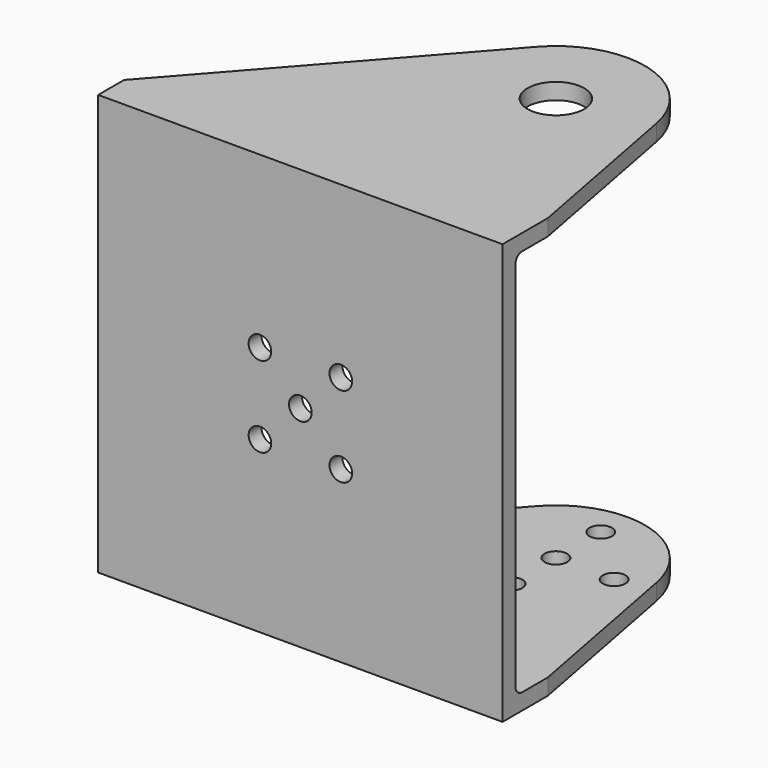
from build123d import *

# Parameters (mm, degrees)
SKETCH_W     = 50
SKETCH_H     = 48
SKETCH_R     = 1.4
PAD_DEPTH    = 2
SKETCH003_R  = 1.4
PAD001_DEPTH = 2
SKETCH004_R  = 3.5
PAD002_DEPTH = 2
FILLET_R     = 1
FILLET001_R  = 1


with BuildPart() as part:
    # Sketch → Pad (new body)
    with BuildSketch(Plane.XZ):
        Rectangle(SKETCH_W, SKETCH_H)
        with Locations((-5, 5)):
            Circle(SKETCH_R, mode=Mode.SUBTRACT)
        with Locations((5, 5)):
            Circle(SKETCH_R, mode=Mode.SUBTRACT)
        with Locations((-5, -5)):
            Circle(SKETCH_R, mode=Mode.SUBTRACT)
        with Locations((5, -5)):
            Circle(SKETCH_R, mode=Mode.SUBTRACT)
        Circle(SKETCH_R, mode=Mode.SUBTRACT)
    extrude(amount=PAD_DEPTH)

    # Sketch003 (on Face3 of Pad) → Pad001 (join)
    with BuildSketch(Plane(origin=(0, 0, -24), x_dir=(1, 0, 0), z_dir=(0, 0, -1))):
        with BuildLine():
            Line((-25, 0), (-25, 2))
            Line((-25, 2), (25, 2))
            Line((25, 2), (25, 0))
            Line((25, 0), (25, -5))
            Line((25, -5), (20.80638, -27.054785))
            ThreePointArc((1.756653, -32.283353), (12.911489, -35.607697), (20.80638, -27.054785))
            Line((-25, -2), (1.756653, -32.283353))
            Line((-25, 0), (-25, -2))
        make_face()
        with Locations((10, -31.934549)):
            Circle(SKETCH003_R, mode=Mode.SUBTRACT)
        with Locations((17.205, -25)):
            Circle(SKETCH003_R, mode=Mode.SUBTRACT)
        with Locations((10, -25)):
            Circle(SKETCH003_R, mode=Mode.SUBTRACT)
        with Locations((2.795, -25)):
            Circle(SKETCH003_R, mode=Mode.SUBTRACT)
        with Locations((10, -18.065451)):
            Circle(SKETCH003_R, mode=Mode.SUBTRACT)
    extrude(amount=PAD001_DEPTH)

    # Sketch004 (on Face1 of Pad) → Pad002 (join)
    with BuildSketch(Plane(origin=(0, 0, 24), x_dir=(-1, 0, 0), z_dir=(0, 0, 1))):
        with BuildLine():
            Line((-25, 2), (25, 2))
            Line((25, 2), (25, 0))
            Line((25, 0), (25, -2))
            Line((25, -2), (-1.756653, -32.283353))
            ThreePointArc((-20.80638, -27.054785), (-12.911489, -35.607697), (-1.756653, -32.283353))
            Line((-25, -5), (-20.80638, -27.054785))
            Line((-25, 0), (-25, -5))
            Line((-25, 0), (-25, 2))
        make_face()
        with Locations((-10, -25)):
            Circle(SKETCH004_R, mode=Mode.SUBTRACT)
    extrude(amount=PAD002_DEPTH)

    # Fillet
    fillet_edges = [part.edges().sort_by_distance(p)[0] for p in [
        (0, 0, 24),
    ]]
    fillet(fillet_edges, radius=FILLET_R)

    # Fillet001
    fillet001_edges = [part.edges().sort_by_distance(p)[0] for p in [
        (0, 0, -24),
    ]]
    fillet(fillet001_edges, radius=FILLET001_R)


solid = part.part
